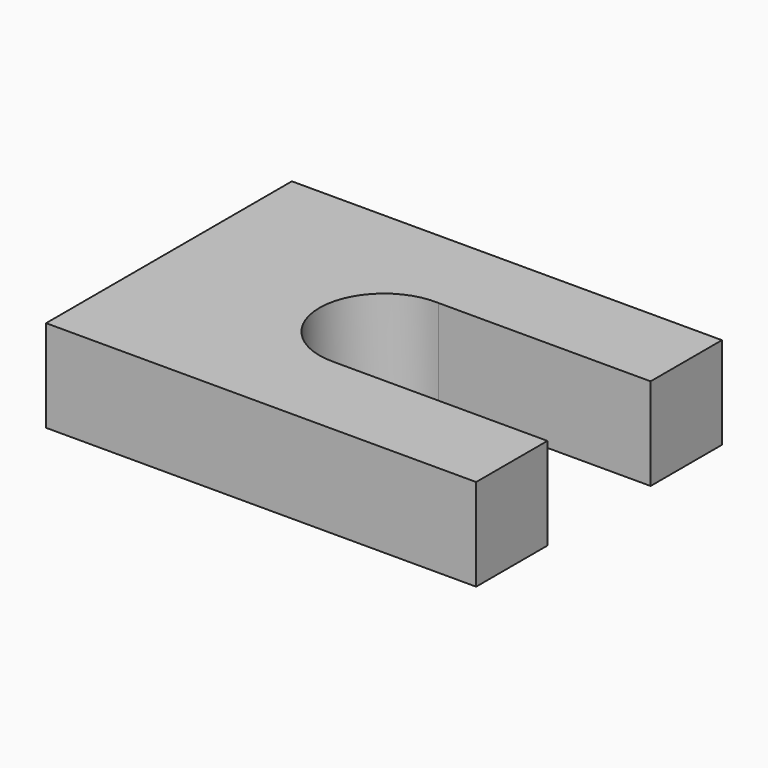
from build123d import *

# Parameters (mm, degrees)
F0_W     = 14
F0_H     = 10
F0_R     = 2.1
F1_DEPTH = 3
F3_DEPTH = 25


with BuildPart() as f1:
    # F0 (on Top) → F1 (new body)
    with BuildSketch(Plane.XY):
        with Locations((-17.947283, 4.858299)):
            Rectangle(F0_W, F0_H)
        with Locations((-17.947283, 4.858299)):
            Circle(F0_R, mode=Mode.SUBTRACT)
    extrude(amount=F1_DEPTH)

    # F2 (on face) → F3 (cut)
    with BuildSketch(Plane.XY.offset(3)):
        with BuildLine():
            Line((-10.947283, 6.956346), (-17.856731, 6.956346))
            ThreePointArc((-17.856731, 6.956346), (-16.430682, 6.310856), (-15.847283, 4.858299))
            ThreePointArc((-15.847283, 4.858299), (-16.448615, 3.387247), (-17.908231, 2.758662))
            Line((-17.908231, 2.758662), (-10.947283, 2.758662))
            Line((-10.947283, 2.758662), (-10.947283, 6.956346))
        make_face()
    extrude(amount=-F3_DEPTH, mode=Mode.SUBTRACT)


solid = f1.part
